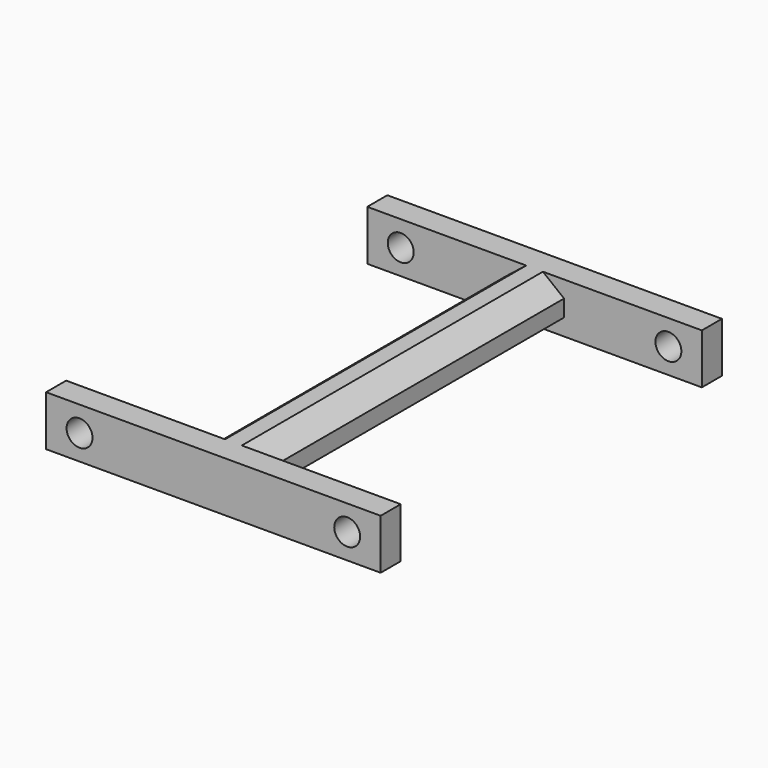
from build123d import *

# Parameters (mm, degrees)
F0_W     = 40
F0_H     = 6
F1_DEPTH = 3
F3_DEPTH = 45
F4_W     = 40
F4_H     = 6
F5_DEPTH = 3
F6_R     = 1.55
F7_DEPTH = 51.001


with BuildPart() as f1:
    # F0 (on Front) → F1 (new body)
    with BuildSketch(Plane.XZ):
        Rectangle(F0_W, F0_H)
    extrude(amount=F1_DEPTH)

    # F2 (on face) → F3 (join)
    with BuildSketch(Plane.XZ.offset(3)):
        Polygon((1, -3), (3.527162, -1), (3.527162, 1), (1, 3), (-1, 3), (-3.527162, 1), (-3.527162, -1), (-1, -3), align=None)
    extrude(amount=F3_DEPTH)

    # F4 (on face) → F5 (join)
    with BuildSketch(Plane.XZ.offset(48)):
        Rectangle(F4_W, F4_H)
    extrude(amount=F5_DEPTH)

    # F6 (on face) → F7 (cut, through all)
    with BuildSketch(Plane(origin=(0, 0, 0), x_dir=(-1, 0, 0), z_dir=(0, 1, 0))):
        with Locations((-16, 0)):
            Circle(F6_R)
        with Locations((16, 0)):
            Circle(F6_R)
    extrude(amount=-F7_DEPTH, mode=Mode.SUBTRACT)


solid = f1.part
